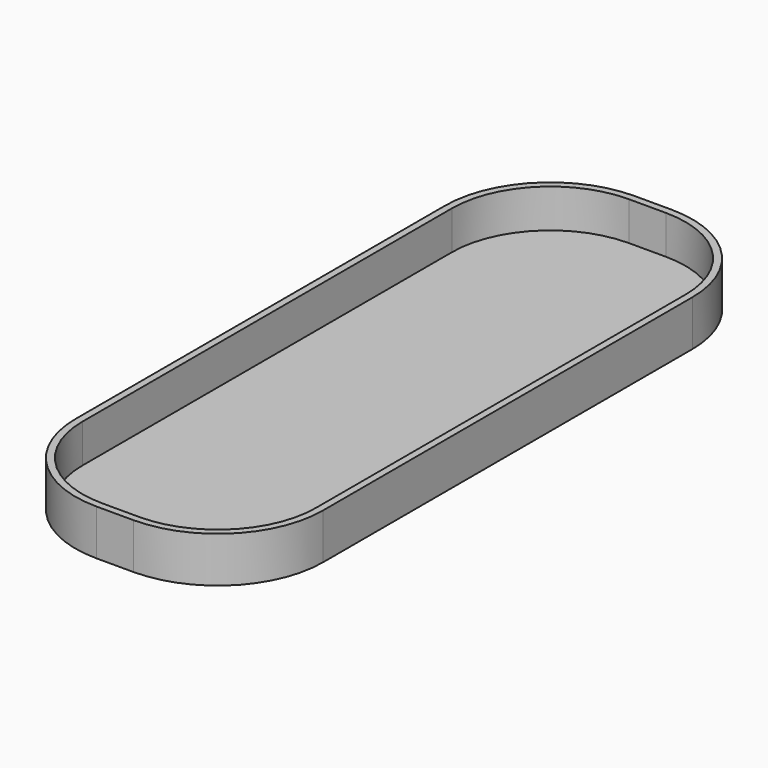
from build123d import *

# Parameters (mm, degrees)
F1_DEPTH = 13
F2_T     = -2


with BuildPart() as f1:
    # F0 (on Top) → F1 (new body)
    with BuildSketch(Plane.XY):
        with BuildLine():
            Line((5.25, 95.75), (-5.25, 95.75))
            ThreePointArc((-5.25, 95.75), (-26.463203, 86.963203), (-35.25, 65.75))
            Line((-35.25, 65.75), (-35.25, -65.75))
            ThreePointArc((-35.25, -65.75), (-26.463203, -86.963203), (-5.25, -95.75))
            Line((-5.25, -95.75), (5.25, -95.75))
            ThreePointArc((5.25, -95.75), (26.463203, -86.963203), (35.25, -65.75))
            Line((35.25, -65.75), (35.25, 65.75))
            ThreePointArc((35.25, 65.75), (26.463203, 86.963203), (5.25, 95.75))
        make_face()
    extrude(amount=F1_DEPTH)

    # F2
    f2_openings = [f1.faces().sort_by_distance(p)[0] for p in [
        (0, 0, 13),
    ]]
    offset(amount=F2_T, openings=f2_openings)


solid = f1.part
